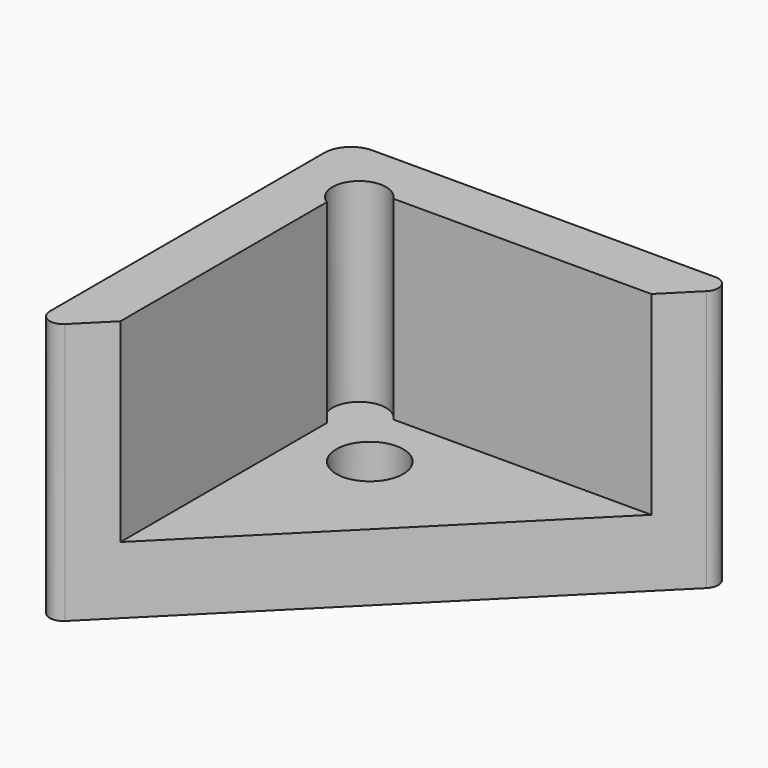
from build123d import *

# Parameters (mm, degrees)
F0_R     = 2.5
F1_DEPTH = 5
F3_DEPTH = 14.5
F4_R     = 2
F5_DEPTH = 14.5
F6_R     = 1
F7_R     = 1
F8_R     = 2


with BuildPart() as f1:
    # F0 (on Top) → F1 (new body)
    with BuildSketch(Plane.XY):
        Polygon((-9, 9), (-9, -21), (21, 9), align=None)
        Circle(F0_R, mode=Mode.SUBTRACT)
    extrude(amount=F1_DEPTH)

    # F2 (on face) → F3 (join)
    with BuildSketch(Plane.XY.offset(5)):
        Polygon((-9, 9), (-9, -21), (-5, -17), (-5, 5), (17, 5), (21, 9), align=None)
    extrude(amount=F3_DEPTH)

    # F4 (on face) → F5 (cut, through all)
    with BuildSketch(Plane.XY.offset(19.5)):
        with Locations((-3.93934, 3.93934)):
            Circle(F4_R)
    extrude(amount=-F5_DEPTH, mode=Mode.SUBTRACT)

    # F6
    f6_edges = [f1.edges().sort_by_distance(p)[0] for p in [
        (21, 9, 9.75),
    ]]
    fillet(f6_edges, radius=F6_R)

    # F7
    f7_edges = [f1.edges().sort_by_distance(p)[0] for p in [
        (-9, -21, 9.75),
    ]]
    fillet(f7_edges, radius=F7_R)

    # F8
    f8_edges = [f1.edges().sort_by_distance(p)[0] for p in [
        (-9, 9, 9.75),
    ]]
    fillet(f8_edges, radius=F8_R)


solid = f1.part
